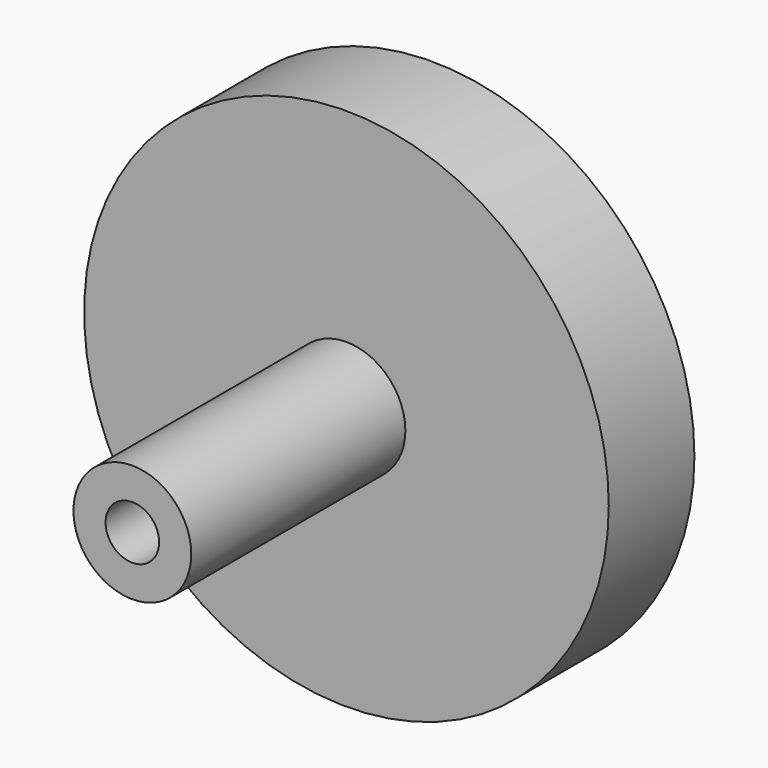
from build123d import *

# Parameters (mm, degrees)
F0_R     = 24.5
F1_DEPTH = 5
F2_R     = 5.5
F2_R_2   = 2.5
F3_DEPTH = 30


with BuildPart() as f1:
    # F0 (on Front) → F1 (new body, symmetric)
    with BuildSketch(Plane.XZ):
        Circle(F0_R)
    extrude(amount=F1_DEPTH, both=True)

    # F2 (on Front) → F3 (join)
    with BuildSketch(Plane.XZ):
        Circle(F2_R)
        Circle(F2_R_2, mode=Mode.SUBTRACT)
    extrude(amount=F3_DEPTH)


solid = f1.part
